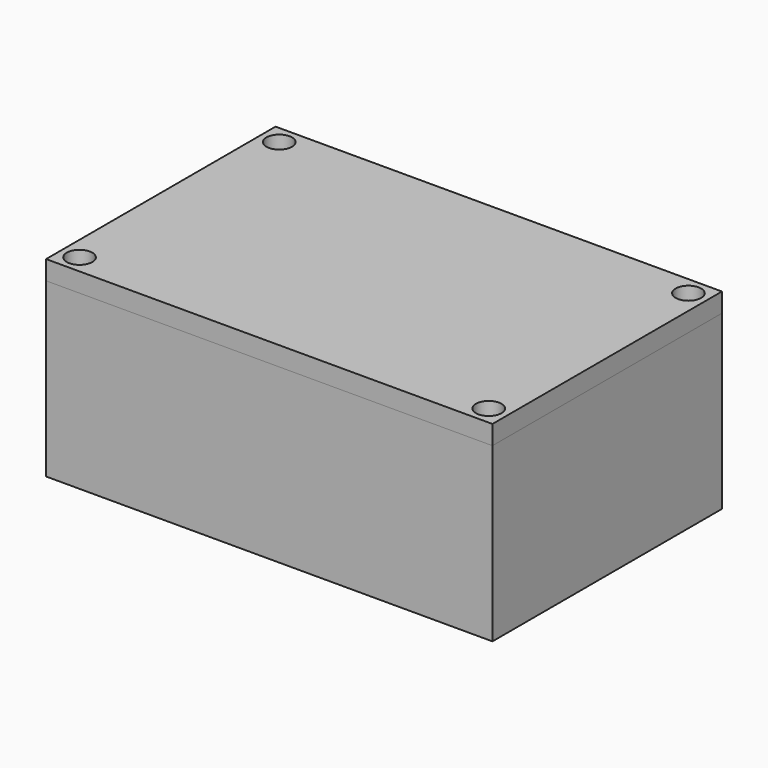
from build123d import *

# Parameters (mm, degrees)
BOX002_W               = 137.9048650686
BOX002_H               = 87.9048650686
BOX002_DEPTH           = 1
CYLINDER004_R          = 2.25
CYLINDER004_DEPTH      = 60
CYLINDER005_R          = 2.25
CYLINDER005_DEPTH      = 60
CYLINDER006_R          = 2.25
CYLINDER006_DEPTH      = 60
CYLINDER007_R          = 2.25
CYLINDER007_DEPTH      = 60
EXTRUDE001_DEPTH       = 34.7
EXTRUDE002_DEPTH       = 34.7
EXTRUDE003_DEPTH       = 34.7
EXTRUDE_DEPTH          = 34.7
BOX004_W               = 5.83
BOX004_H               = 5.83
BOX004_DEPTH           = 53
BOX003_W               = 11.66
BOX003_H               = 11.66
BOX003_DEPTH           = 53
BOX006_W               = 5.83
BOX006_H               = 5.83
BOX006_DEPTH           = 53
BOX005_W               = 11.66
BOX005_H               = 11.66
BOX005_DEPTH           = 53
CUT002_PLACEMENT_ANGLE = 90
BOX008_W               = 5.83
BOX008_H               = 5.83
BOX008_DEPTH           = 53
BOX007_W               = 11.66
BOX007_H               = 11.66
BOX007_DEPTH           = 53
CUT003_PLACEMENT_ANGLE = 180
CYLINDER003_R          = 5.83
CYLINDER003_DEPTH      = 53
CYLINDER002_R          = 5.83
CYLINDER002_DEPTH      = 53
CYLINDER001_R          = 5.83
CYLINDER001_DEPTH      = 53
CYLINDER_R             = 5.83
CYLINDER_DEPTH         = 53
BOX010_W               = 5.83
BOX010_H               = 5.83
BOX010_DEPTH           = 53
BOX009_W               = 11.66
BOX009_H               = 11.66
BOX009_DEPTH           = 53
CUT004_PLACEMENT_ANGLE = 270
BOX001_W               = 135.9048650686
BOX001_H               = 85.9048650686
BOX001_DEPTH           = 52
BOX_W                  = 139.9048650686
BOX_H                  = 89.9048650686
BOX_DEPTH              = 54
BOX023_W               = 137.9048650686
BOX023_H               = 87.9048650686
BOX023_DEPTH           = 1
BOX022_W               = 139.9048650686
BOX022_H               = 89.9048650686
BOX022_DEPTH           = 1
CYLINDER012_R          = 2.25
CYLINDER012_DEPTH      = 60
CYLINDER013_R          = 2.25
CYLINDER013_DEPTH      = 60
CYLINDER014_R          = 2.25
CYLINDER014_DEPTH      = 60
CYLINDER015_R          = 2.25
CYLINDER015_DEPTH      = 60
CYLINDER016_R          = 4
CYLINDER016_DEPTH      = 4.3
CYLINDER017_R          = 4
CYLINDER017_DEPTH      = 4.3
CYLINDER018_R          = 4
CYLINDER018_DEPTH      = 4.3
CYLINDER019_R          = 4
CYLINDER019_DEPTH      = 4.3
BOX013_W               = 135.9048650686
BOX013_H               = 85.9048650686
BOX013_DEPTH           = 5
BOX012_W               = 137.9048650686
BOX012_H               = 87.9048650686
BOX012_DEPTH           = 1
BOX011_W               = 139.9048650686
BOX011_H               = 89.9048650686
BOX011_DEPTH           = 6
BOX015_W               = 5.83
BOX015_H               = 5.83
BOX015_DEPTH           = 7
BOX014_W               = 11.66
BOX014_H               = 11.66
BOX014_DEPTH           = 7
BOX017_W               = 5.83
BOX017_H               = 5.83
BOX017_DEPTH           = 7
BOX016_W               = 11.66
BOX016_H               = 11.66
BOX016_DEPTH           = 7
CUT009_PLACEMENT_ANGLE = 90
BOX019_W               = 5.83
BOX019_H               = 5.83
BOX019_DEPTH           = 7
BOX018_W               = 11.66
BOX018_H               = 11.66
BOX018_DEPTH           = 7
CUT010_PLACEMENT_ANGLE = 180
CYLINDER011_R          = 5.83
CYLINDER011_DEPTH      = 7
CYLINDER010_R          = 5.83
CYLINDER010_DEPTH      = 7
CYLINDER009_R          = 5.83
CYLINDER009_DEPTH      = 7
CYLINDER008_R          = 5.83
CYLINDER008_DEPTH      = 7
BOX021_W               = 5.83
BOX021_H               = 5.83
BOX021_DEPTH           = 7
BOX020_W               = 11.66
BOX020_H               = 11.66
BOX020_DEPTH           = 7
CUT011_PLACEMENT_ANGLE = 270


with BuildPart() as overlapregion01:
    # Box002 → Box002 (new body)
    with BuildSketch(Plane(origin=(1, 1, 53), x_dir=(1, 0, 0), z_dir=(0, 0, 1))):
        with Locations((68.9524325343, 43.9524325343)):
            Rectangle(BOX002_W, BOX002_H)
    extrude(amount=BOX002_DEPTH)


with BuildPart() as cylinder004:
    # Cylinder004 → Cylinder004 (new body)
    with BuildSketch(Plane(origin=(5.83, 5.83, 0), x_dir=(1, 0, 0), z_dir=(0, 0, 1))):
        Circle(CYLINDER004_R)
    extrude(amount=CYLINDER004_DEPTH)


with BuildPart() as cylinder005:
    # Cylinder005 → Cylinder005 (new body)
    with BuildSketch(Plane(origin=(134.0748650686, 5.83, 0), x_dir=(1, 0, 0), z_dir=(0, 0, 1))):
        Circle(CYLINDER005_R)
    extrude(amount=CYLINDER005_DEPTH)


with BuildPart() as cylinder006:
    # Cylinder006 → Cylinder006 (new body)
    with BuildSketch(Plane(origin=(5.83, 84.0748650686, 0), x_dir=(1, 0, 0), z_dir=(0, 0, 1))):
        Circle(CYLINDER006_R)
    extrude(amount=CYLINDER006_DEPTH)


with BuildPart() as m4through001:
    # Cylinder007 → Cylinder007 (new body)
    with BuildSketch(Plane(origin=(134.0748650686, 84.0748650686, 0), x_dir=(1, 0, 0), z_dir=(0, 0, 1))):
        Circle(CYLINDER007_R)
    extrude(amount=CYLINDER007_DEPTH)

    # Fusion: union Cylinder004, Cylinder005, Cylinder006
    add(cylinder004.part)
    add(cylinder005.part)
    add(cylinder006.part)


with BuildPart() as din934_m004:
    # Sketch001 → Extrude001 (new body)
    with BuildSketch(Plane.XY):
        Polygon((-3.95, 0), (-1.975, -3.4208003449), (1.975, -3.4208003449), (3.95, 0), (1.975, 3.4208003449), (-1.975, 3.4208003449), align=None)
    extrude(amount=EXTRUDE001_DEPTH)


with BuildPart() as din934_m004_1:
    # Extrude001 placement: moved
    add(din934_m004.part.moved(Location((134.0748650686, 5.83, 0))))


with BuildPart() as din934_m005:
    # Sketch002 → Extrude002 (new body)
    with BuildSketch(Plane.XY):
        Polygon((-3.95, 0), (-1.975, -3.4208003449), (1.975, -3.4208003449), (3.95, 0), (1.975, 3.4208003449), (-1.975, 3.4208003449), align=None)
    extrude(amount=EXTRUDE002_DEPTH)


with BuildPart() as din934_m005_1:
    # Extrude002 placement: moved
    add(din934_m005.part.moved(Location((5.83, 84.0748650686, 0))))


with BuildPart() as din934_m006:
    # Sketch003 → Extrude003 (new body)
    with BuildSketch(Plane.XY):
        Polygon((-3.95, 0), (-1.975, -3.4208003449), (1.975, -3.4208003449), (3.95, 0), (1.975, 3.4208003449), (-1.975, 3.4208003449), align=None)
    extrude(amount=EXTRUDE003_DEPTH)


with BuildPart() as din934_m006_1:
    # Extrude003 placement: moved
    add(din934_m006.part.moved(Location((134.0748650686, 84.0748650686, 0))))


with BuildPart() as fusion004:
    # Sketch → Extrude (new body)
    with BuildSketch(Plane.XY):
        Polygon((-3.95, 0), (-1.975, -3.4208003449), (1.975, -3.4208003449), (3.95, 0), (1.975, 3.4208003449), (-1.975, 3.4208003449), align=None)
    extrude(amount=EXTRUDE_DEPTH)


with BuildPart() as fusion004_1:
    # Extrude placement: moved
    add(fusion004.part.moved(Location((5.83, 5.83, 0))))

    add(din934_m004_1.part)
    add(din934_m005_1.part)
    add(din934_m006_1.part)

    # Fusion004: union M4Through001
    add(m4through001.part)


with BuildPart() as cube001:
    # Box004 → Box004 (new body)
    with BuildSketch(Plane(origin=(5.83, 5.83, 0), x_dir=(1, 0, 0), z_dir=(0, 0, 1))):
        with Locations((2.915, 2.915)):
            Rectangle(BOX004_W, BOX004_H)
    extrude(amount=BOX004_DEPTH)


with BuildPart() as cut001:
    # Box003 → Box003 (new body)
    with BuildSketch(Plane.XY):
        with Locations((5.83, 5.83)):
            Rectangle(BOX003_W, BOX003_H)
    extrude(amount=BOX003_DEPTH)

    # Cut001: cut Cube001
    add(cube001.part, mode=Mode.SUBTRACT)


with BuildPart() as cube003:
    # Box006 → Box006 (new body)
    with BuildSketch(Plane(origin=(5.83, 5.83, 0), x_dir=(1, 0, 0), z_dir=(0, 0, 1))):
        with Locations((2.915, 2.915)):
            Rectangle(BOX006_W, BOX006_H)
    extrude(amount=BOX006_DEPTH)


with BuildPart() as cut002:
    # Box005 → Box005 (new body)
    with BuildSketch(Plane.XY):
        with Locations((5.83, 5.83)):
            Rectangle(BOX005_W, BOX005_H)
    extrude(amount=BOX005_DEPTH)

    # Cut002: cut Cube003
    add(cube003.part, mode=Mode.SUBTRACT)


with BuildPart() as cut002_1:
    # Cut002 placement: moved
    add(cut002.part.moved(Location((139.9048650686, 0, 0))).rotate(Axis((139.9048650686, 0, 0), (0, 0, 1)), CUT002_PLACEMENT_ANGLE))


with BuildPart() as cube005:
    # Box008 → Box008 (new body)
    with BuildSketch(Plane(origin=(5.83, 5.83, 0), x_dir=(1, 0, 0), z_dir=(0, 0, 1))):
        with Locations((2.915, 2.915)):
            Rectangle(BOX008_W, BOX008_H)
    extrude(amount=BOX008_DEPTH)


with BuildPart() as cut003:
    # Box007 → Box007 (new body)
    with BuildSketch(Plane.XY):
        with Locations((5.83, 5.83)):
            Rectangle(BOX007_W, BOX007_H)
    extrude(amount=BOX007_DEPTH)

    # Cut003: cut Cube005
    add(cube005.part, mode=Mode.SUBTRACT)


with BuildPart() as cut003_1:
    # Cut003 placement: moved
    add(cut003.part.moved(Location((139.9048650686, 89.9048650686, 0))).rotate(Axis((139.9048650686, 89.9048650686, 0), (0, 0, 1)), CUT003_PLACEMENT_ANGLE))


with BuildPart() as cylinder003:
    # Cylinder003 → Cylinder003 (new body)
    with BuildSketch(Plane(origin=(134.0748650686, 84.0748650686, 0), x_dir=(1, 0, 0), z_dir=(0, 0, 1))):
        Circle(CYLINDER003_R)
    extrude(amount=CYLINDER003_DEPTH)


with BuildPart() as cylinder002:
    # Cylinder002 → Cylinder002 (new body)
    with BuildSketch(Plane(origin=(5.83, 84.0748650686, 0), x_dir=(1, 0, 0), z_dir=(0, 0, 1))):
        Circle(CYLINDER002_R)
    extrude(amount=CYLINDER002_DEPTH)


with BuildPart() as cylinder001:
    # Cylinder001 → Cylinder001 (new body)
    with BuildSketch(Plane(origin=(134.0748650686, 5.83, 0), x_dir=(1, 0, 0), z_dir=(0, 0, 1))):
        Circle(CYLINDER001_R)
    extrude(amount=CYLINDER001_DEPTH)


with BuildPart() as cylinder:
    # Cylinder → Cylinder (new body)
    with BuildSketch(Plane(origin=(5.83, 5.83, 0), x_dir=(1, 0, 0), z_dir=(0, 0, 1))):
        Circle(CYLINDER_R)
    extrude(amount=CYLINDER_DEPTH)


with BuildPart() as cube007:
    # Box010 → Box010 (new body)
    with BuildSketch(Plane(origin=(5.83, 5.83, 0), x_dir=(1, 0, 0), z_dir=(0, 0, 1))):
        with Locations((2.915, 2.915)):
            Rectangle(BOX010_W, BOX010_H)
    extrude(amount=BOX010_DEPTH)


with BuildPart() as screwhousing001:
    # Box009 → Box009 (new body)
    with BuildSketch(Plane.XY):
        with Locations((5.83, 5.83)):
            Rectangle(BOX009_W, BOX009_H)
    extrude(amount=BOX009_DEPTH)

    # Cut004: cut Cube007
    add(cube007.part, mode=Mode.SUBTRACT)


with BuildPart() as screwhousing001_1:
    # Cut004 placement: moved
    add(screwhousing001.part.moved(Location((0, 89.9048650686, 0))).rotate(Axis((0, 89.9048650686, 0), (0, 0, 1)), CUT004_PLACEMENT_ANGLE))

    # Fusion001: union Cut001, Cut002, Cut003, Cylinder003, Cylinder002, Cylinder001, Cylinder
    add(cut001.part)
    add(cut002_1.part)
    add(cut003_1.part)
    add(cylinder003.part)
    add(cylinder002.part)
    add(cylinder001.part)
    add(cylinder.part)


with BuildPart() as obj1:
    # Box001 → Box001 (new body)
    with BuildSketch(Plane(origin=(2, 2, 2), x_dir=(1, 0, 0), z_dir=(0, 0, 1))):
        with Locations((67.9524325343, 42.9524325343)):
            Rectangle(BOX001_W, BOX001_H)
    extrude(amount=BOX001_DEPTH)


with BuildPart() as lowerpart:
    # Box → Box (new body)
    with BuildSketch(Plane.XY):
        with Locations((69.9524325343, 44.9524325343)):
            Rectangle(BOX_W, BOX_H)
    extrude(amount=BOX_DEPTH)

    # Cut: cut obj1
    add(obj1.part, mode=Mode.SUBTRACT)

    # Fusion003: union ScrewHousing001
    add(screwhousing001_1.part)

    # Cut005: cut Fusion004
    add(fusion004_1.part, mode=Mode.SUBTRACT)

    # Cut006: cut OverlapRegion01
    add(overlapregion01.part, mode=Mode.SUBTRACT)


with BuildPart() as cube019:
    # Box023 → Box023 (new body)
    with BuildSketch(Plane(origin=(1, 1, 0), x_dir=(1, 0, 0), z_dir=(0, 0, 1))):
        with Locations((68.9524325343, 43.9524325343)):
            Rectangle(BOX023_W, BOX023_H)
    extrude(amount=BOX023_DEPTH)


with BuildPart() as cut012:
    # Box022 → Box022 (new body)
    with BuildSketch(Plane.XY):
        with Locations((69.9524325343, 44.9524325343)):
            Rectangle(BOX022_W, BOX022_H)
    extrude(amount=BOX022_DEPTH)

    # Cut012: cut Cube019
    add(cube019.part, mode=Mode.SUBTRACT)


with BuildPart() as cylinder012:
    # Cylinder012 → Cylinder012 (new body)
    with BuildSketch(Plane(origin=(5.83, 5.83, 0), x_dir=(1, 0, 0), z_dir=(0, 0, 1))):
        Circle(CYLINDER012_R)
    extrude(amount=CYLINDER012_DEPTH)


with BuildPart() as cylinder013:
    # Cylinder013 → Cylinder013 (new body)
    with BuildSketch(Plane(origin=(134.0748650686, 5.83, 0), x_dir=(1, 0, 0), z_dir=(0, 0, 1))):
        Circle(CYLINDER013_R)
    extrude(amount=CYLINDER013_DEPTH)


with BuildPart() as cylinder014:
    # Cylinder014 → Cylinder014 (new body)
    with BuildSketch(Plane(origin=(5.83, 84.0748650686, 0), x_dir=(1, 0, 0), z_dir=(0, 0, 1))):
        Circle(CYLINDER014_R)
    extrude(amount=CYLINDER014_DEPTH)


with BuildPart() as m4through002:
    # Cylinder015 → Cylinder015 (new body)
    with BuildSketch(Plane(origin=(134.0748650686, 84.0748650686, 0), x_dir=(1, 0, 0), z_dir=(0, 0, 1))):
        Circle(CYLINDER015_R)
    extrude(amount=CYLINDER015_DEPTH)

    # Fusion008: union Cylinder012, Cylinder013, Cylinder014
    add(cylinder012.part)
    add(cylinder013.part)
    add(cylinder014.part)


with BuildPart() as cylinder016:
    # Cylinder016 → Cylinder016 (new body)
    with BuildSketch(Plane(origin=(5.83, 5.83, 0), x_dir=(1, 0, 0), z_dir=(0, 0, 1))):
        Circle(CYLINDER016_R)
    extrude(amount=CYLINDER016_DEPTH)


with BuildPart() as cylinder017:
    # Cylinder017 → Cylinder017 (new body)
    with BuildSketch(Plane(origin=(134.0748650686, 5.83, 0), x_dir=(1, 0, 0), z_dir=(0, 0, 1))):
        Circle(CYLINDER017_R)
    extrude(amount=CYLINDER017_DEPTH)


with BuildPart() as cylinder018:
    # Cylinder018 → Cylinder018 (new body)
    with BuildSketch(Plane(origin=(5.83, 84.0748650686, 0), x_dir=(1, 0, 0), z_dir=(0, 0, 1))):
        Circle(CYLINDER018_R)
    extrude(amount=CYLINDER018_DEPTH)


with BuildPart() as fusion010:
    # Cylinder019 → Cylinder019 (new body)
    with BuildSketch(Plane(origin=(134.0748650686, 84.0748650686, 0), x_dir=(1, 0, 0), z_dir=(0, 0, 1))):
        Circle(CYLINDER019_R)
    extrude(amount=CYLINDER019_DEPTH)

    # Fusion009: union Cylinder016, Cylinder017, Cylinder018
    add(cylinder016.part)
    add(cylinder017.part)
    add(cylinder018.part)


with BuildPart() as fusion010_1:
    # Fusion009 placement: moved
    add(fusion010.part.moved(Location((0, 0, 2.7))))

    # Fusion010: union M4Through002
    add(m4through002.part)


with BuildPart() as obj2:
    # Box013 → Box013 (new body)
    with BuildSketch(Plane(origin=(2, 2, 0), x_dir=(1, 0, 0), z_dir=(0, 0, 1))):
        with Locations((67.9524325343, 42.9524325343)):
            Rectangle(BOX013_W, BOX013_H)
    extrude(amount=BOX013_DEPTH)


with BuildPart() as cube009:
    # Box012 → Box012 (new body)
    with BuildSketch(Plane(origin=(1, 1, 0), x_dir=(1, 0, 0), z_dir=(0, 0, 1))):
        with Locations((68.9524325343, 43.9524325343)):
            Rectangle(BOX012_W, BOX012_H)
    extrude(amount=BOX012_DEPTH)


with BuildPart() as cut007:
    # Box011 → Box011 (new body)
    with BuildSketch(Plane.XY.offset(1)):
        with Locations((69.9524325343, 44.9524325343)):
            Rectangle(BOX011_W, BOX011_H)
    extrude(amount=BOX011_DEPTH)

    # Fusion005: union Cube009
    add(cube009.part)

    # Cut007: cut obj2
    add(obj2.part, mode=Mode.SUBTRACT)


with BuildPart() as cube011:
    # Box015 → Box015 (new body)
    with BuildSketch(Plane(origin=(5.83, 5.83, 0), x_dir=(1, 0, 0), z_dir=(0, 0, 1))):
        with Locations((2.915, 2.915)):
            Rectangle(BOX015_W, BOX015_H)
    extrude(amount=BOX015_DEPTH)


with BuildPart() as cut008:
    # Box014 → Box014 (new body)
    with BuildSketch(Plane.XY):
        with Locations((5.83, 5.83)):
            Rectangle(BOX014_W, BOX014_H)
    extrude(amount=BOX014_DEPTH)

    # Cut008: cut Cube011
    add(cube011.part, mode=Mode.SUBTRACT)


with BuildPart() as cube013:
    # Box017 → Box017 (new body)
    with BuildSketch(Plane(origin=(5.83, 5.83, 0), x_dir=(1, 0, 0), z_dir=(0, 0, 1))):
        with Locations((2.915, 2.915)):
            Rectangle(BOX017_W, BOX017_H)
    extrude(amount=BOX017_DEPTH)


with BuildPart() as cut009:
    # Box016 → Box016 (new body)
    with BuildSketch(Plane.XY):
        with Locations((5.83, 5.83)):
            Rectangle(BOX016_W, BOX016_H)
    extrude(amount=BOX016_DEPTH)

    # Cut009: cut Cube013
    add(cube013.part, mode=Mode.SUBTRACT)


with BuildPart() as cut009_1:
    # Cut009 placement: moved
    add(cut009.part.moved(Location((139.9048650686, 0, 0))).rotate(Axis((139.9048650686, 0, 0), (0, 0, 1)), CUT009_PLACEMENT_ANGLE))


with BuildPart() as cube015:
    # Box019 → Box019 (new body)
    with BuildSketch(Plane(origin=(5.83, 5.83, 0), x_dir=(1, 0, 0), z_dir=(0, 0, 1))):
        with Locations((2.915, 2.915)):
            Rectangle(BOX019_W, BOX019_H)
    extrude(amount=BOX019_DEPTH)


with BuildPart() as cut010:
    # Box018 → Box018 (new body)
    with BuildSketch(Plane.XY):
        with Locations((5.83, 5.83)):
            Rectangle(BOX018_W, BOX018_H)
    extrude(amount=BOX018_DEPTH)

    # Cut010: cut Cube015
    add(cube015.part, mode=Mode.SUBTRACT)


with BuildPart() as cut010_1:
    # Cut010 placement: moved
    add(cut010.part.moved(Location((139.9048650686, 89.9048650686, 0))).rotate(Axis((139.9048650686, 89.9048650686, 0), (0, 0, 1)), CUT010_PLACEMENT_ANGLE))


with BuildPart() as cylinder011:
    # Cylinder011 → Cylinder011 (new body)
    with BuildSketch(Plane(origin=(134.0748650686, 84.0748650686, 0), x_dir=(1, 0, 0), z_dir=(0, 0, 1))):
        Circle(CYLINDER011_R)
    extrude(amount=CYLINDER011_DEPTH)


with BuildPart() as cylinder010:
    # Cylinder010 → Cylinder010 (new body)
    with BuildSketch(Plane(origin=(5.83, 84.0748650686, 0), x_dir=(1, 0, 0), z_dir=(0, 0, 1))):
        Circle(CYLINDER010_R)
    extrude(amount=CYLINDER010_DEPTH)


with BuildPart() as cylinder009:
    # Cylinder009 → Cylinder009 (new body)
    with BuildSketch(Plane(origin=(134.0748650686, 5.83, 0), x_dir=(1, 0, 0), z_dir=(0, 0, 1))):
        Circle(CYLINDER009_R)
    extrude(amount=CYLINDER009_DEPTH)


with BuildPart() as cylinder008:
    # Cylinder008 → Cylinder008 (new body)
    with BuildSketch(Plane(origin=(5.83, 5.83, 0), x_dir=(1, 0, 0), z_dir=(0, 0, 1))):
        Circle(CYLINDER008_R)
    extrude(amount=CYLINDER008_DEPTH)


with BuildPart() as cube017:
    # Box021 → Box021 (new body)
    with BuildSketch(Plane(origin=(5.83, 5.83, 0), x_dir=(1, 0, 0), z_dir=(0, 0, 1))):
        with Locations((2.915, 2.915)):
            Rectangle(BOX021_W, BOX021_H)
    extrude(amount=BOX021_DEPTH)


with BuildPart() as upperpart:
    # Box020 → Box020 (new body)
    with BuildSketch(Plane.XY):
        with Locations((5.83, 5.83)):
            Rectangle(BOX020_W, BOX020_H)
    extrude(amount=BOX020_DEPTH)

    # Cut011: cut Cube017
    add(cube017.part, mode=Mode.SUBTRACT)


with BuildPart() as upperpart_1:
    # Cut011 placement: moved
    add(upperpart.part.moved(Location((0, 89.9048650686, 0))).rotate(Axis((0, 89.9048650686, 0), (0, 0, 1)), CUT011_PLACEMENT_ANGLE))

    # Fusion006: union Cut008, Cut009, Cut010, Cylinder011, Cylinder010, Cylinder009, Cylinder008
    add(cut008.part)
    add(cut009_1.part)
    add(cut010_1.part)
    add(cylinder011.part)
    add(cylinder010.part)
    add(cylinder009.part)
    add(cylinder008.part)

    # Fusion007: union Cut007
    add(cut007.part)

    # Cut013: cut Fusion010
    add(fusion010_1.part, mode=Mode.SUBTRACT)

    # Cut014: cut Cut012
    add(cut012.part, mode=Mode.SUBTRACT)


with BuildPart() as upperpart_2:
    # Cut014 placement: moved
    add(upperpart_1.part.moved(Location((0, 0, 53))))


solid = Compound([lowerpart.part, upperpart_2.part])
